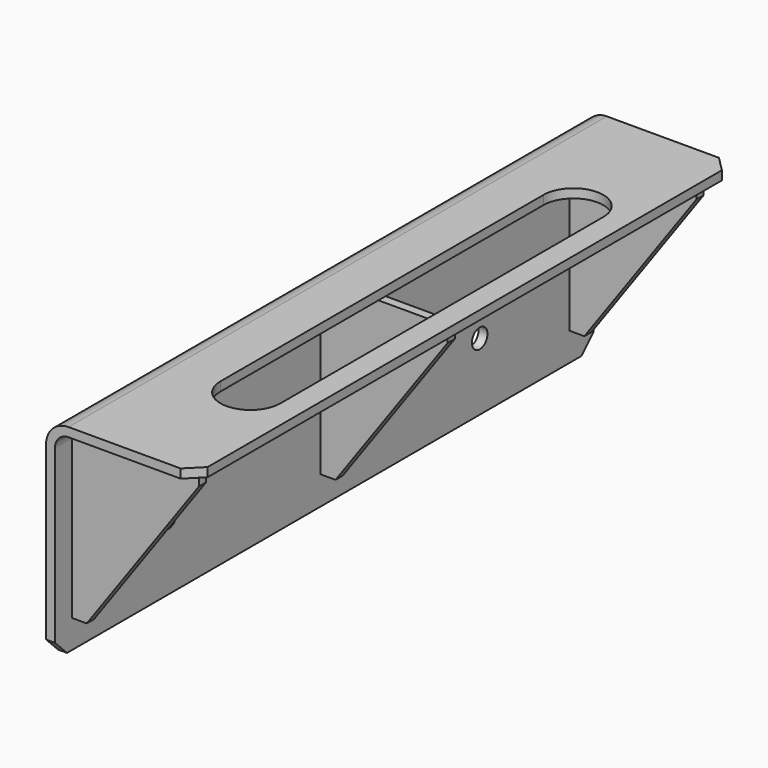
from build123d import *

# Parameters (mm, degrees)
F1_DEPTH  = 225
F2_W      = 6
F2_H      = 9
F2_H_2    = 106
F3_DEPTH  = 85
F4_SIZE   = 10
F4_2_SIZE = 10
F4_3_SIZE = 10
F6_DEPTH  = 450
F7_SIZE   = 10
F9_DEPTH  = 6
F10_R     = 6.5
F11_DEPTH = 6


with BuildPart() as f1:
    # F0 (on Front) → F1 (new body, symmetric)
    with BuildSketch(Plane.XZ):
        with BuildLine():
            Line((0, 125), (0, 0))
            Line((0, 0), (6, 0))
            Line((6, 0), (6, 125))
            ThreePointArc((6, 125), (8.6360389693, 131.3639610307), (15, 134))
            Line((15, 134), (100, 134))
            Line((100, 134), (100, 140))
            Line((100, 140), (15, 140))
            ThreePointArc((15, 140), (4.3933982822, 135.6066017178), (0, 125))
        make_face()
    extrude(amount=F1_DEPTH, both=True)

    # F7
    f7_edges = [f1.edges().sort_by_distance(p)[0] for p in [
        (100, 225, 137),
        (3, 225, 0),
        (100, -225, 137),
        (3, -225, 0),
    ]]
    chamfer(f7_edges, length=F7_SIZE)

    # F8 (on face) → F9 (cut)
    with BuildSketch(Plane.XY.offset(140)):
        with BuildLine():
            Line((84.6847039461, -135), (84.6847039461, 135))
            ThreePointArc((84.6847039461, 135), (64.6847039461, 155), (44.6847039461, 135))
            Line((44.6847039461, 135), (44.6847039461, -135))
            ThreePointArc((44.6847039461, -135), (64.6847039461, -155), (84.6847039461, -135))
        make_face()
    extrude(amount=-F9_DEPTH, mode=Mode.SUBTRACT)

    # F10 (on face) → F11 (cut)
    with BuildSketch(Plane(origin=(0, 0, 0), x_dir=(0, -1, 0), z_dir=(-1, 0, 0))):
        with Locations((-130, 45)):
            Circle(F10_R)
        with Locations((130, 45)):
            Circle(F10_R)
    extrude(amount=-F11_DEPTH, mode=Mode.SUBTRACT)


with BuildPart() as f3:
    # F2 (on face) → F3 (new body)
    with BuildSketch(Plane.YZ.offset(6)):
        with Locations((-208, 129.5)):
            Rectangle(F2_W, F2_H)
        with Locations((-208, 72)):
            Rectangle(F2_W, F2_H_2)
    extrude(amount=F3_DEPTH)

    # F4#3
    f4_3_edges = [f3.edges().sort_by_distance(p)[0] for p in [
        (6, -208, 134),
    ]]
    chamfer(f4_3_edges, length=F4_3_SIZE)


with BuildPart() as f3b:
    # F2 (on face) → F3, piece 2 (new body)
    with BuildSketch(Plane.YZ.offset(6)):
        with Locations((0, 129.5)):
            Rectangle(F2_W, F2_H)
        with Locations((0, 72)):
            Rectangle(F2_W, F2_H_2)
    extrude(amount=F3_DEPTH)

    # F4#2
    f4_2_edges = [f3b.edges().sort_by_distance(p)[0] for p in [
        (6, 0, 134),
    ]]
    chamfer(f4_2_edges, length=F4_2_SIZE)


with BuildPart() as f3c:
    # F2 (on face) → F3, piece 3 (new body)
    with BuildSketch(Plane.YZ.offset(6)):
        with Locations((208, 72)):
            Rectangle(F2_W, F2_H_2)
        with Locations((208, 129.5)):
            Rectangle(F2_W, F2_H)
    extrude(amount=F3_DEPTH)

    # F4
    f4_edges = [f3c.edges().sort_by_distance(p)[0] for p in [
        (6, 208, 134),
    ]]
    chamfer(f4_edges, length=F4_SIZE)


with BuildPart() as f6_tool:
    # F5 (on face) → F6 (new body)
    with BuildSketch(Plane(origin=(0, 211, 0), x_dir=(-1, 0, 0), z_dir=(0, 1, 0))):
        Polygon((-16, 19), (-91, 124), (-91, 19), align=None)
    extrude(amount=-F6_DEPTH)


with BuildPart() as f3_1:
    add(f3.part)

    # F6: cut by f6_tool
    add(f6_tool.part, mode=Mode.SUBTRACT)


with BuildPart() as f3b_1:
    add(f3b.part)

    # F6: cut by f6_tool
    add(f6_tool.part, mode=Mode.SUBTRACT)


with BuildPart() as f3c_1:
    add(f3c.part)

    # F6: cut by f6_tool
    add(f6_tool.part, mode=Mode.SUBTRACT)


solid = Compound([f1.part, f3_1.part, f3b_1.part, f3c_1.part])
